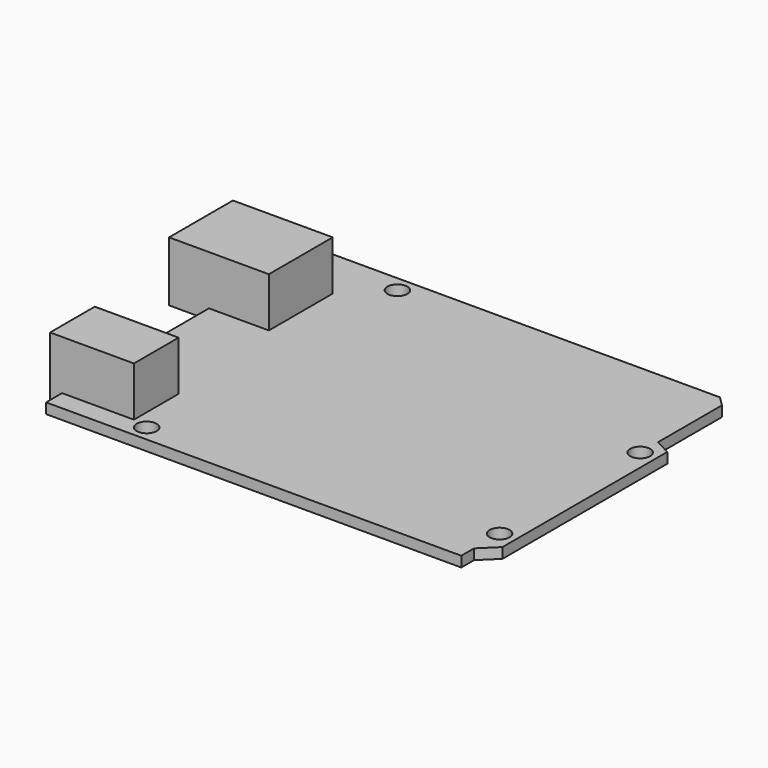
from build123d import *

# Parameters (mm, degrees)
F0_R     = 1.5875
F2_DEPTH = 1.651
F1_W     = 13.335
F1_H     = 8.89
F1_W_2   = 15.875
F1_H_2   = 12.7
F3_DEPTH = 9.525


with BuildPart() as f2:
    # F0 (on Top) → F2 (new body)
    with BuildSketch(Plane.XY):
        Polygon((-33.711009, 53.34), (-33.711009, 0), (32.328991, 0), (32.328991, 2.54), (34.868991, 5.015685), (34.868991, 37.781685), (32.328991, 39.116), (32.328991, 51.816), (30.804991, 53.34), align=None)
        with Locations((-19.741009, 2.54)):
            Circle(F0_R, mode=Mode.SUBTRACT)
        with Locations((32.328991, 7.62)):
            Circle(F0_R, mode=Mode.SUBTRACT)
        with Locations((-18.471009, 50.8)):
            Circle(F0_R, mode=Mode.SUBTRACT)
        with Locations((32.328991, 35.56)):
            Circle(F0_R, mode=Mode.SUBTRACT)
    extrude(amount=F2_DEPTH)

    # F1 (on Top) → F3 (join)
    with BuildSketch(Plane.XY):
        with Locations((-28.948509, 7.62)):
            Rectangle(F1_W, F1_H)
        with Locations((-32.123509, 38.735)):
            Rectangle(F1_W_2, F1_H_2)
    extrude(amount=F3_DEPTH)


solid = f2.part
